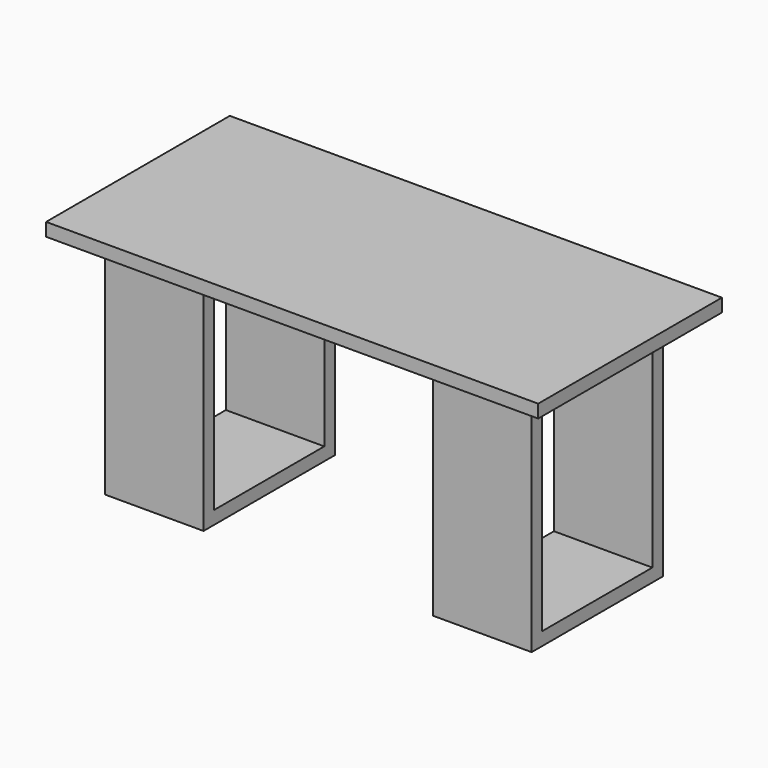
from build123d import *

# Parameters (mm, degrees)
F0_W     = 1500
F0_H     = 700
F1_DEPTH = 40
F2_W     = 300
F2_H     = 500
F3_DEPTH = 700
F4_W     = 420
F4_H     = 620
F5_DEPTH = 1328


with BuildPart() as f1:
    # F0 (on Top) → F1 (new body)
    with BuildSketch(Plane.XY):
        with Locations((750, -350)):
            Rectangle(F0_W, F0_H)
    extrude(amount=-F1_DEPTH)

    # F2 (on face) → F3 (join)
    with BuildSketch(Plane(origin=(0, 0, -40), x_dir=(1, 0, 0), z_dir=(0, 0, -1))):
        with Locations((250, 350)):
            Rectangle(F2_W, F2_H)
        with Locations((1250, 350)):
            Rectangle(F2_W, F2_H)
    extrude(amount=F3_DEPTH)

    # F4 (on face) → F5 (cut)
    with BuildSketch(Plane(origin=(100, 0, 0), x_dir=(0, -1, 0), z_dir=(-1, 0, 0))):
        with Locations((350, -390)):
            Rectangle(F4_W, F4_H)
    extrude(amount=-F5_DEPTH, mode=Mode.SUBTRACT)


solid = f1.part
